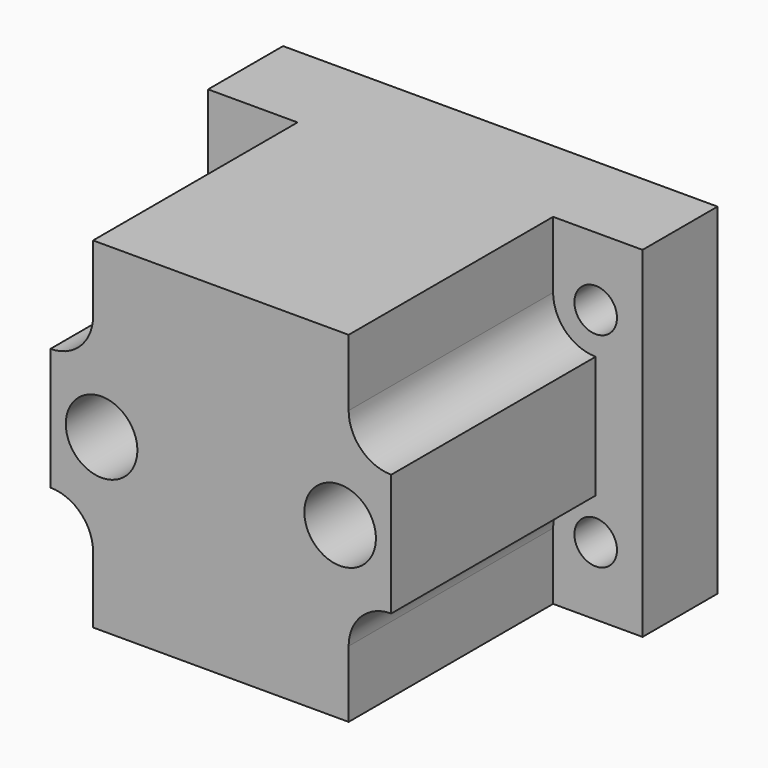
from build123d import *

# Parameters (mm, degrees)
F0_W     = 51
F0_H     = 40
F1_DEPTH = 41
F4_W     = 5.5
F4_H     = 40
F5_DEPTH = 30
F7_DEPTH = 30
F2_R     = 2.5
F8_DEPTH = 41.001
F9_D     = 8.4
F9_DEPTH = 20
F9_TIP   = 2.5236145999


with BuildPart() as f1:
    # F0 (on Front) → F1 (new body)
    with BuildSketch(Plane.XZ):
        Rectangle(F0_W, F0_H)
    extrude(amount=F1_DEPTH)

    # F4 (on face) → F5 (cut)
    with BuildSketch(Plane.XZ.offset(41)):
        with Locations((22.75, 0)):
            Rectangle(F4_W, F4_H)
        with Locations((-22.75, 0)):
            Rectangle(F4_W, F4_H)
    extrude(amount=-F5_DEPTH, mode=Mode.SUBTRACT)

    # F6 (on face) → F7 (cut)
    with BuildSketch(Plane.XZ.offset(41)):
        with BuildLine():
            Line((-20, 20), (-20, 17.1716884745))
            ThreePointArc((-20, 17.1716884745), (-23.5355339059, 8.6361545685), (-15, 12.1716884745))
            Line((-15, 12.1716884745), (-15, 20))
            Line((-15, 20), (-20, 20))
        make_face()
        with BuildLine():
            Line((20, 17.1716884745), (20, 20))
            Line((20, 20), (15, 20))
            Line((15, 20), (15, 12.1716884745))
            ThreePointArc((15, 12.1716884745), (23.5355339059, 8.6361545685), (20, 17.1716884745))
        make_face()
        with BuildLine():
            Line((20, -20), (20, -17.1716884745))
            ThreePointArc((20, -17.1716884745), (23.5355339059, -8.6361545685), (15, -12.1716884745))
            Line((15, -12.1716884745), (15, -20))
            Line((15, -20), (20, -20))
        make_face()
        with BuildLine():
            ThreePointArc((-15, -12.1716884745), (-23.5355339059, -8.6361545685), (-20, -17.1716884745))
            Line((-20, -17.1716884745), (-20, -20))
            Line((-20, -20), (-15, -20))
            Line((-15, -20), (-15, -12.1716884745))
        make_face()
    extrude(amount=-F7_DEPTH, mode=Mode.SUBTRACT)

    # F2 (on face) → F8 (cut, through all)
    with BuildSketch(Plane(origin=(0, 0, 0), x_dir=(-1, 0, 0), z_dir=(0, 1, 0))):
        with Locations((-20, 12)):
            Circle(F2_R)
        with Locations((-20, -12)):
            Circle(F2_R)
        with Locations((20, -12)):
            Circle(F2_R)
        with Locations((20, 12)):
            Circle(F2_R)
    extrude(amount=-F8_DEPTH, mode=Mode.SUBTRACT)

    # F9
    with Locations(Plane.XZ.offset(41)):
        with Locations((-14, 0), (14, 0)):
            Hole(F9_D / 2, depth=F9_DEPTH)
            with Locations((0, 0, -(F9_DEPTH + F9_TIP / 2))):  # 118° drill point
                Cone(0, F9_D / 2, F9_TIP, mode=Mode.SUBTRACT)


solid = f1.part
